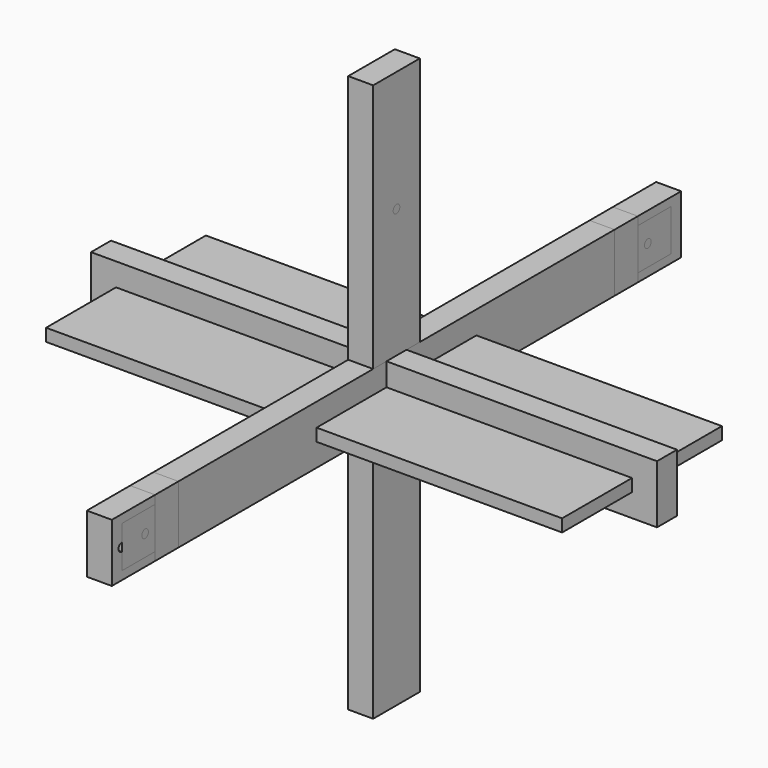
from build123d import *

# Parameters (mm, degrees)
F0_W      = 863.6
F0_H      = 88.9
F1_DEPTH  = 19.05
F2_W      = 1085.85
F2_H      = 88.9
F2_R      = 6.35
F3_DEPTH  = 19.05
F4_W      = 88.9
F4_H      = 723.9
F4_R      = 6.35
F5_DEPTH  = 19.05
F6_W      = 88.9
F6_H      = 850.9
F6_R      = 6.35
F7_DEPTH  = 19.05
F8_W      = 787.4
F8_H      = 304.8
F8_R      = 6.35
F9_DEPTH  = 9.525
F10_W     = 1047.75
F10_H     = 63.5
F10_R     = 6.35
F11_DEPTH = 19.05
F12_W     = 920.75
F12_H     = 88.9
F13_DEPTH = 19.05
F14_W     = 831.85
F14_H     = 88.9
F15_DEPTH = 19.05


with BuildPart() as f1:
    # F0 (on Front) → F1 (new body, symmetric)
    with BuildSketch(Plane.XZ):
        Rectangle(F0_W, F0_H)
    extrude(amount=F1_DEPTH, both=True)


with BuildPart() as f3:
    # F2 (on Right) → F3 (new body, symmetric)
    with BuildSketch(Plane.YZ):
        Rectangle(F2_W, F2_H)
        with Locations((-523.875, 0)):
            Circle(F2_R, mode=Mode.SUBTRACT)
        with Locations((-460.375, 0)):
            Circle(F2_R, mode=Mode.SUBTRACT)
        with Locations((434.975, 0)):
            Circle(F2_R, mode=Mode.SUBTRACT)
        with Locations((498.475, 0)):
            Circle(F2_R, mode=Mode.SUBTRACT)
    extrude(amount=F3_DEPTH, both=True)


with BuildPart() as f5:
    # F4 (on Right) → F5 (new body, symmetric)
    with BuildSketch(Plane.YZ):
        Rectangle(F4_W, F4_H)
        with Locations((0, 57.15)):
            Circle(F4_R, mode=Mode.SUBTRACT)
        with Locations((0, 304.8)):
            Circle(F4_R, mode=Mode.SUBTRACT)
    extrude(amount=F5_DEPTH, both=True)


with BuildPart() as f7:
    # F6 (on Right) → F7 (new body, symmetric)
    with BuildSketch(Plane.YZ):
        Rectangle(F6_W, F6_H)
        with Locations((0, -6.35)):
            Circle(F6_R, mode=Mode.SUBTRACT)
        with Locations((0, 241.3)):
            Circle(F6_R, mode=Mode.SUBTRACT)
    extrude(amount=F7_DEPTH, both=True)


with BuildPart() as f9:
    # F8 (on Top) → F9 (new body, symmetric)
    with BuildSketch(Plane.XY):
        Rectangle(F8_W, F8_H)
        with Locations((-374.65, 0)):
            Circle(F8_R, mode=Mode.SUBTRACT)
        with Locations((374.65, 0)):
            Circle(F8_R, mode=Mode.SUBTRACT)
    extrude(amount=F9_DEPTH, both=True)


with BuildPart() as f11:
    # F10 (on Right) → F11 (new body, symmetric)
    with BuildSketch(Plane.YZ):
        Rectangle(F10_W, F10_H)
        with Locations((-479.425, 0)):
            Circle(F10_R, mode=Mode.SUBTRACT)
        with Locations((479.425, 0)):
            Circle(F10_R, mode=Mode.SUBTRACT)
    extrude(amount=F11_DEPTH, both=True)


with BuildPart() as f13:
    # F12 (on Right) → F13 (new body, symmetric)
    with BuildSketch(Plane.YZ):
        Rectangle(F12_W, F12_H)
    extrude(amount=F13_DEPTH, both=True)


with BuildPart() as f15:
    # F14 (on Right) → F15 (new body, symmetric)
    with BuildSketch(Plane.YZ):
        Rectangle(F14_W, F14_H)
    extrude(amount=F15_DEPTH, both=True)


solid = Compound([f1.part, f3.part, f5.part, f7.part, f9.part, f11.part, f13.part, f15.part])
